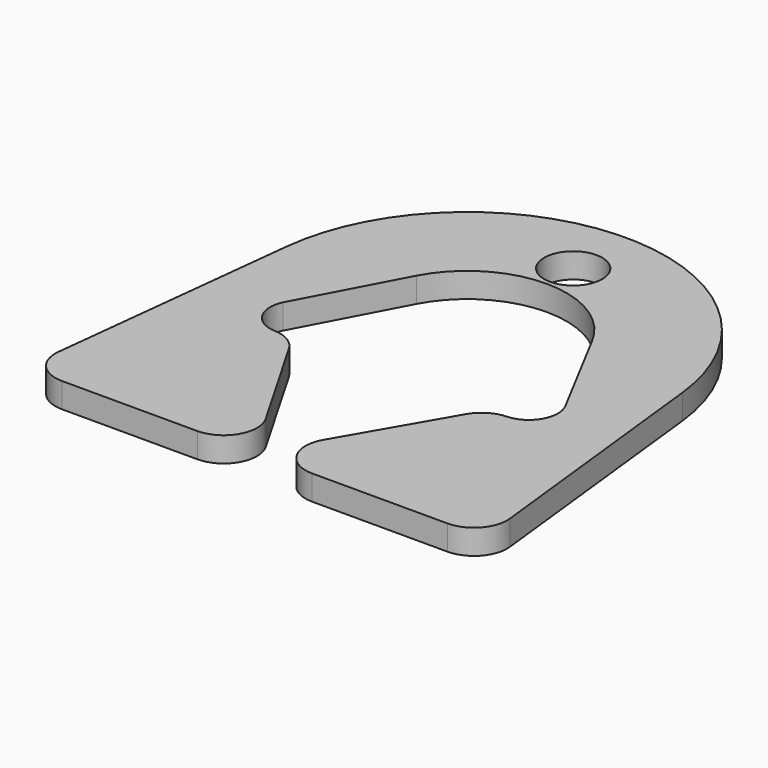
from build123d import *

# Parameters (mm, degrees)
F0_R     = 5.55625
F1_DEPTH = 4.7625


with BuildPart() as f1:
    # F0 (on Top) → F1 (new body)
    with BuildSketch(Plane.XY):
        with BuildLine():
            Line((43.208482, -43.747039), (37.865822, 4.217764))
            ThreePointArc((37.865822, 4.217764), (0, 38.1), (-37.865822, 4.217764))
            Line((-37.865822, 4.217764), (-43.208482, -43.747039))
            ThreePointArc((-43.208482, -43.747039), (-41.629652, -48.684306), (-36.897511, -50.8))
            Line((-36.897511, -50.8), (-10.998523, -50.8))
            ThreePointArc((-10.998523, -50.8), (-5.499261, -47.625), (-5.499261, -41.275))
            Line((-5.499261, -41.275), (-16.961266, -21.422225))
            ThreePointArc((-16.961266, -21.422225), (-19.179072, -19.160816), (-22.213337, -18.252039))
            ThreePointArc((-22.213337, -18.252039), (-26.761537, -15.558589), (-26.997608, -10.277959))
            Line((-26.997608, -10.277959), (-16.835655, 8.914214))
            ThreePointArc((-16.835655, 8.914214), (0, 19.05), (16.835655, 8.914214))
            Line((16.835655, 8.914214), (26.810952, -9.925434))
            ThreePointArc((26.810952, -9.925434), (26.907445, -10.100021), (26.997608, -10.277959))
            ThreePointArc((26.997608, -10.277959), (26.761537, -15.558589), (22.213337, -18.252039))
            ThreePointArc((22.213337, -18.252039), (19.179072, -19.160816), (16.961266, -21.422225))
            Line((16.961266, -21.422225), (5.499261, -41.275))
            ThreePointArc((5.499261, -41.275), (5.499261, -47.625), (10.998523, -50.8))
            Line((10.998523, -50.8), (36.897511, -50.8))
            ThreePointArc((36.897511, -50.8), (41.629652, -48.684306), (43.208482, -43.747039))
        make_face()
        with Locations((0, 25.4)):
            Circle(F0_R, mode=Mode.SUBTRACT)
    extrude(amount=F1_DEPTH)


solid = f1.part
